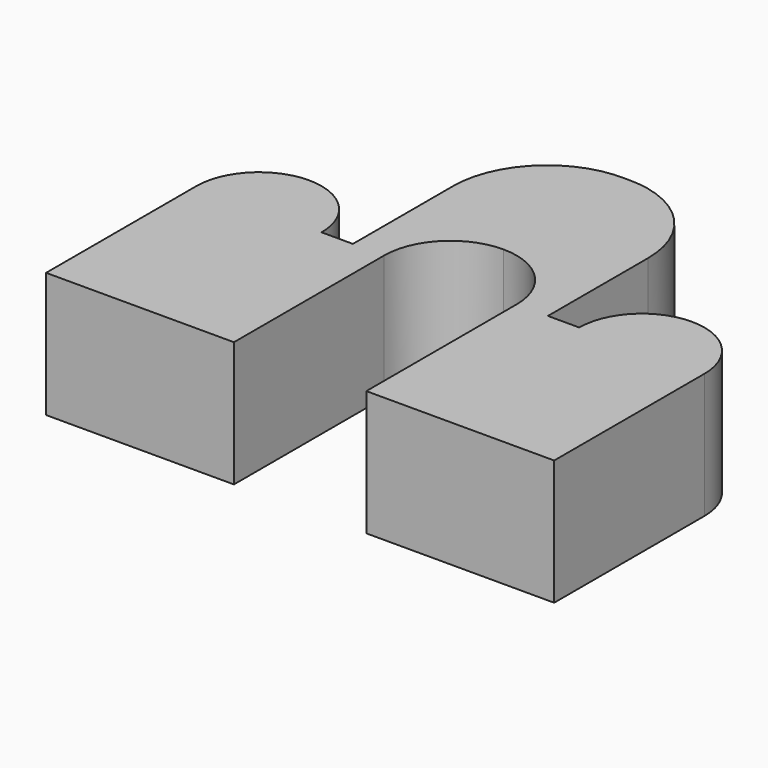
from build123d import *

# Parameters (mm, degrees)
F1_DEPTH = 50.8


with BuildPart() as f1:
    # F0 (on Top) → F1 (new body)
    with BuildSketch(Plane.XY):
        with BuildLine():
            Line((0, 76.2), (0, 0))
            Line((0, 0), (76.2, 0))
            Line((76.2, 0), (76.2, 76.2))
            ThreePointArc((76.2, 76.2), (84.064918, 95.187592), (103.05251, 103.05251))
            ThreePointArc((103.05251, 103.05251), (122.040102, 95.187592), (129.905021, 76.2))
            Line((129.905021, 76.2), (129.905021, 0))
            Line((129.905021, 0), (206.105021, 0))
            Line((206.105021, 0), (206.105021, 76.2))
            ThreePointArc((206.105021, 76.2), (180.705021, 101.6), (155.305021, 76.2))
            Line((155.305021, 76.2), (142.605021, 76.2))
            Line((142.605021, 76.2), (142.605021, 127))
            ThreePointArc((142.605021, 127), (130.927259, 154.449505), (103.05251, 165.072302))
            ThreePointArc((103.05251, 165.072302), (75.177762, 154.449505), (63.5, 127))
            Line((63.5, 127), (63.5, 76.2))
            Line((63.5, 76.2), (50.8, 76.2))
            Line((50.8, 76.2), (0, 76.2))
        make_face()
        with BuildLine():
            ThreePointArc((50.8, 76.2), (25.4, 101.6), (0, 76.2))
            Line((0, 76.2), (50.8, 76.2))
        make_face()
    extrude(amount=F1_DEPTH)


solid = f1.part
